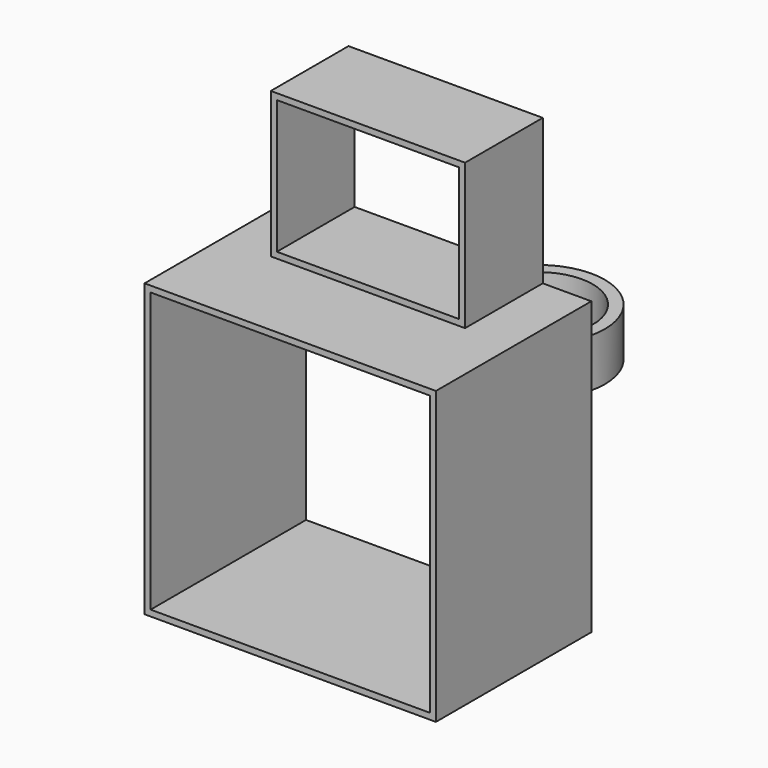
from build123d import *

# Parameters (mm, degrees)
F0_W     = 203.2
F0_H     = 152.4
F0_W_2   = 190.5
F0_H_2   = 139.7
F1_DEPTH = 101.6
F0_W_3   = 292.1
F0_H_3   = 292.1
F2_DEPTH = 203.2
F4_R     = 69.85
F4_R_2   = 57.15
F5_DEPTH = 50.8


with BuildPart() as f1:
    # F0 (on Front) → F1 (new body)
    with BuildSketch(Plane.XZ):
        with Locations((0, 76.2)):
            Rectangle(F0_W, F0_H)
        with Locations((0, 76.2)):
            Rectangle(F0_W_2, F0_H_2, mode=Mode.SUBTRACT)
    extrude(amount=F1_DEPTH)

    # F0 (on Front) → F2 (join)
    with BuildSketch(Plane.XZ):
        Polygon((101.6, 0), (-101.6, 0), (-152.4, 0), (-152.4, -304.8), (152.4, -304.8), (152.4, 0), align=None)
        with Locations((0, -152.4)):
            Rectangle(F0_W_3, F0_H_3, mode=Mode.SUBTRACT)
    extrude(amount=F2_DEPTH)


with BuildPart() as f5:
    # F4 (on offset) → F5 (new body)
    with BuildSketch(Plane.XY.offset(-101.6)):
        with Locations((0, 120.9009091642)):
            Circle(F4_R)
        with Locations((0, 120.9009091642)):
            Circle(F4_R_2, mode=Mode.SUBTRACT)
    extrude(amount=-F5_DEPTH)


solid = Compound([f1.part, f5.part])
